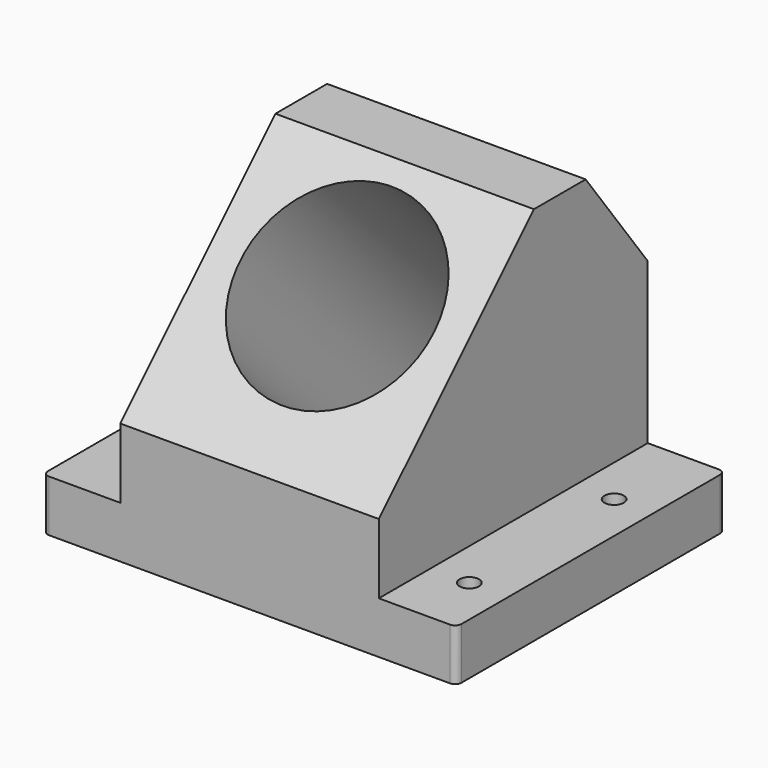
from build123d import *

# Parameters (mm, degrees)
F0_W     = 60
F0_H     = 260
F0_R     = 7.5
F1_DEPTH = 40
F0_W_2   = 200
F2_DEPTH = 94
F4_DEPTH = 200
F5_R     = 75
F6_DEPTH = 324.75
F7_R     = 5


with BuildPart() as f1:
    # F0 (on Top) → F1 (new body)
    with BuildSketch(Plane.XY):
        with Locations((130, 0)):
            Rectangle(F0_W, F0_H)
        with Locations((130, -80)):
            Circle(F0_R, mode=Mode.SUBTRACT)
        with Locations((130, 60)):
            Circle(F0_R, mode=Mode.SUBTRACT)
    extrude(amount=F1_DEPTH)



with BuildPart() as f1b:
    # F0 (on Top) → F1, piece 2 (new body)
    with BuildSketch(Plane.XY):
        with Locations((-130, 0)):
            Rectangle(F0_W, F0_H)
        with Locations((-130, -80)):
            Circle(F0_R, mode=Mode.SUBTRACT)
        with Locations((-130, 60)):
            Circle(F0_R, mode=Mode.SUBTRACT)
    extrude(amount=F1_DEPTH)


with BuildPart() as f1_1:
    add(f1.part)

    add(f1b.part)  # F2 merges F1b
    # F0 (on Top) → F2 (join)
    with BuildSketch(Plane.XY):
        Rectangle(F0_W_2, F0_H)
    extrude(amount=F2_DEPTH)

    # F3 (on face) → F4 (join)
    with BuildSketch(Plane.YZ.offset(100)):
        Polygon((20, 244), (-130, 94), (130, 94), (130, 164), (70, 244), align=None)
    extrude(amount=-F4_DEPTH)

    # F5 (on face) → F6 (cut)
    with BuildSketch(Plane(origin=(0, -112, 112), x_dir=(1, 0, 0), z_dir=(0, -0.7071067812, 0.7071067812))):
        with Locations((0, 94.4373130938)):
            Circle(F5_R)
    extrude(amount=-F6_DEPTH, mode=Mode.SUBTRACT)

    # F7
    f7_edges = [f1_1.edges().sort_by_distance(p)[0] for p in [
        (-160, -130, 20),
        (160, -130, 20),
        (160, 130, 20),
        (-160, 130, 20),
    ]]
    fillet(f7_edges, radius=F7_R)


solid = f1_1.part
